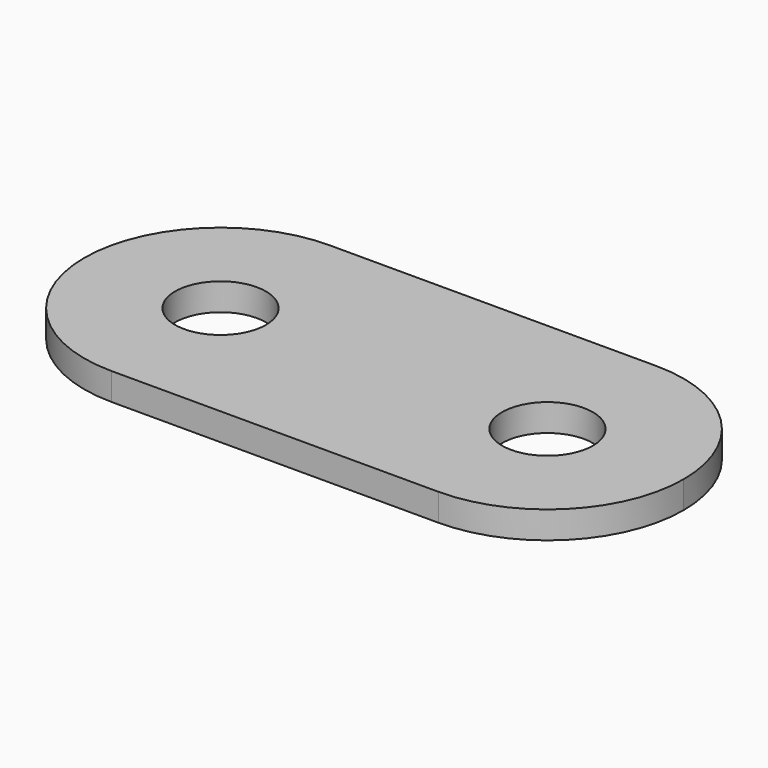
from build123d import *

# Parameters (mm, degrees)
F0_R     = 2.54
F1_DEPTH = 1.524


with BuildPart() as f1:
    # F0 (on Top) → F1 (new body)
    with BuildSketch(Plane.XY):
        with BuildLine():
            Line((18.288, 7.62), (0, 7.62))
            ThreePointArc((0, 7.62), (-5.388154, 5.388154), (-7.62, 0))
            ThreePointArc((-7.62, 0), (-5.388154, -5.388154), (0, -7.62))
            Line((0, -7.62), (18.288, -7.62))
            ThreePointArc((18.288, -7.62), (23.676154, -5.388154), (25.908, 0))
            ThreePointArc((25.908, 0), (23.676154, 5.388154), (18.288, 7.62))
        make_face()
        Circle(F0_R, mode=Mode.SUBTRACT)
        with Locations((18.288, 0)):
            Circle(F0_R, mode=Mode.SUBTRACT)
    extrude(amount=F1_DEPTH)


solid = f1.part
